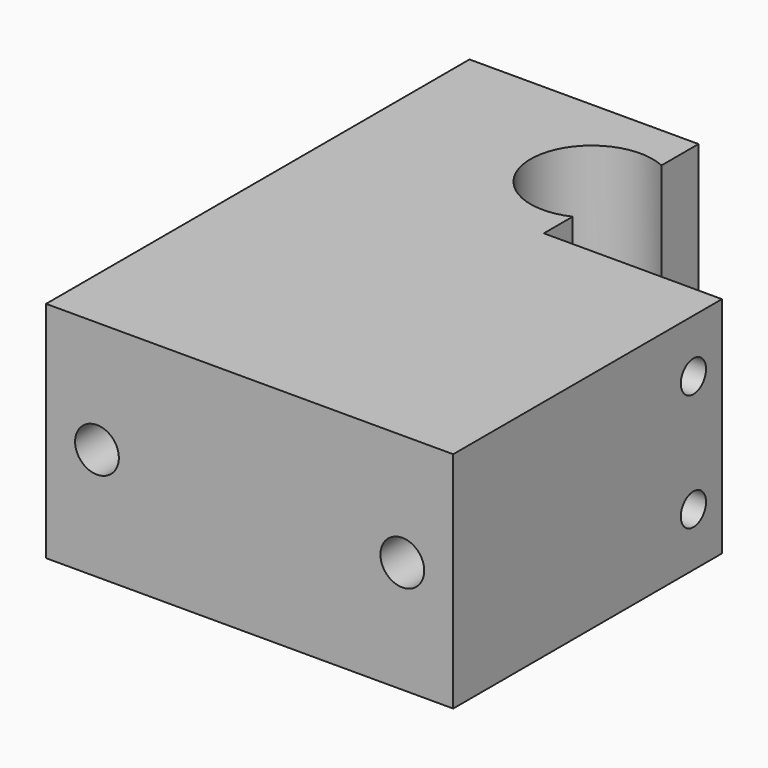
from build123d import *

# Parameters (mm, degrees)
F0_W      = 40
F0_H      = 52
F1_DEPTH  = 22
F3_R      = 6
F4_DEPTH  = 25
F5_R      = 2.15
F6_DEPTH  = 10
F7_W      = 17.5
F7_H      = 22
F8_DEPTH  = 19
F9_R      = 1.55
F10_DEPTH = 10


with BuildPart() as f1:
    # F0 (on Top) → F1 (new body)
    with BuildSketch(Plane.XY):
        with Locations((20, 26)):
            Rectangle(F0_W, F0_H)
    extrude(amount=F1_DEPTH)

    # F3 (on face) → F4 (cut)
    with BuildSketch(Plane.XY.offset(22)):
        with Locations((20, 42)):
            Circle(F3_R)
    extrude(amount=-F4_DEPTH, mode=Mode.SUBTRACT)

    # F5 (on face) → F6 (cut)
    with BuildSketch(Plane.XZ):
        with Locations((5, 11)):
            Circle(F5_R)
        with Locations((35, 11)):
            Circle(F5_R)
    extrude(amount=-F6_DEPTH, mode=Mode.SUBTRACT)

    # F7 (on face) → F8 (cut)
    with BuildSketch(Plane(origin=(0, 52, 0), x_dir=(-1, 0, 0), z_dir=(0, 1, 0))):
        with Locations((-31.25, 11)):
            Rectangle(F7_W, F7_H)
    extrude(amount=-F8_DEPTH, mode=Mode.SUBTRACT)

    # F9 (on face) → F10 (cut)
    with BuildSketch(Plane.YZ.offset(40)):
        with Locations((29.5, 16.75)):
            Circle(F9_R)
        with Locations((29.5, 5.25)):
            Circle(F9_R)
    extrude(amount=-F10_DEPTH, mode=Mode.SUBTRACT)


solid = f1.part
